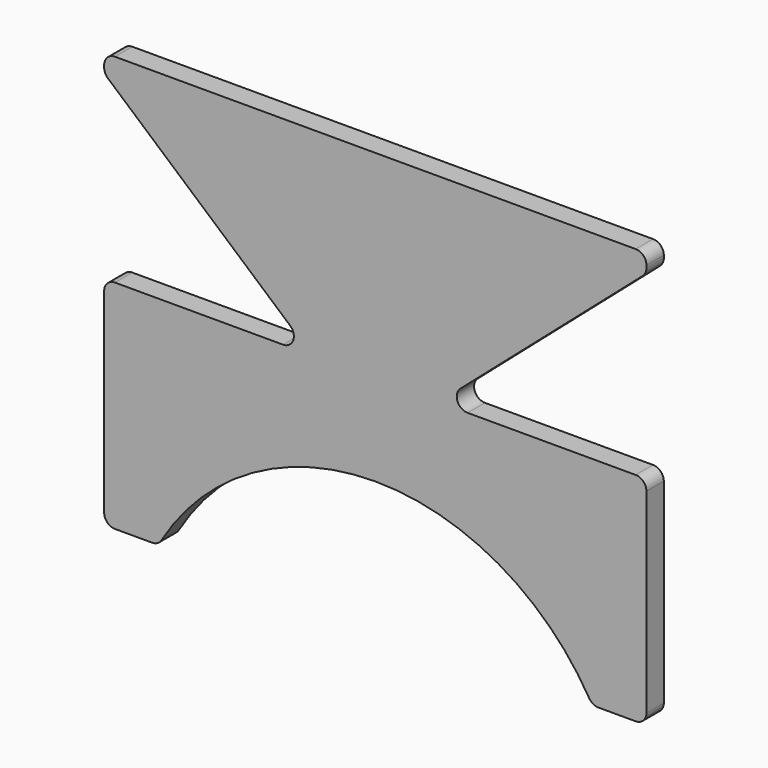
from build123d import *

# Parameters (mm, degrees)
F1_DEPTH = 3
F2_R     = 3


with BuildPart() as f1:
    # F0 (on Front) → F1 (new body, symmetric)
    with BuildSketch(Plane.XZ):
        with BuildLine():
            Line((-75, 60), (-75, 0))
            Line((-75, 0), (-60, 0))
            ThreePointArc((-60, 0), (0, 35), (60, 0))
            Line((60, 0), (75, 0))
            Line((75, 0), (75, 60))
            Line((75, 60), (17.5, 60))
            Line((17.5, 60), (75, 110))
            Line((75, 110), (75, 115))
            Line((75, 115), (-75, 115))
            Line((-75, 115), (-75, 110))
            Line((-75, 110), (-17.5, 60))
            Line((-17.5, 60), (-75, 60))
        make_face()
    extrude(amount=F1_DEPTH, both=True)

    # F2
    f2_edges = [f1.edges().sort_by_distance(p)[0] for p in [
        (-17.5, 0, 60),
        (17.5, 0, 60),
        (75, 0, 60),
        (75, 0, 0),
        (-60, 0, 0),
        (-75, 0, 60),
        (60, 0, 0),
        (-75, 0, 0),
        (-75, 0, 115),
        (-75, 0, 110),
        (75, 0, 115),
        (75, 0, 110),
    ]]
    fillet(f2_edges, radius=F2_R)


solid = f1.part
